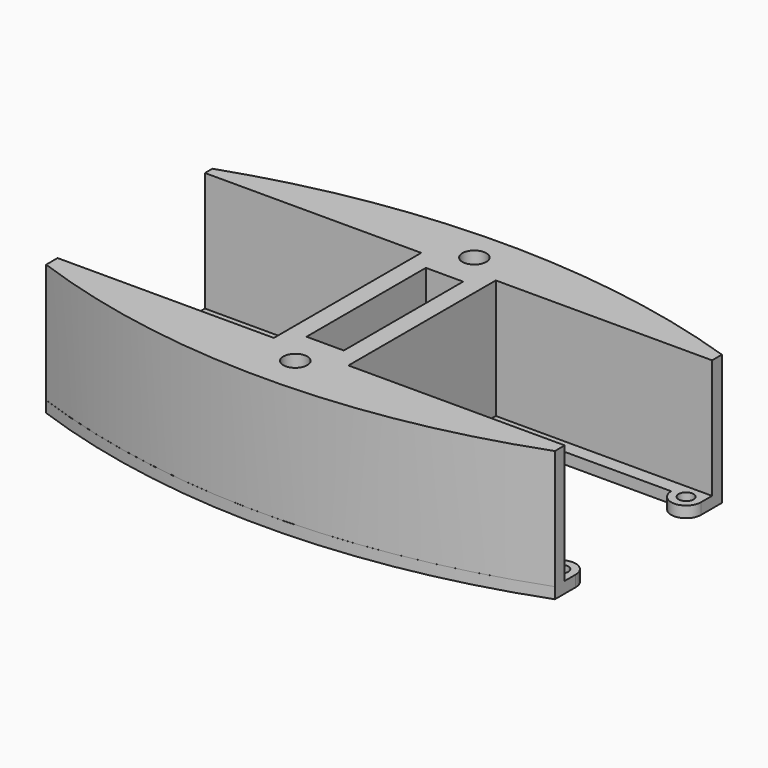
from build123d import *

# Parameters (mm, degrees)
SKETCH_R        = 1
PAD_DEPTH       = 1.5
PAD001_DEPTH    = 16
SKETCH002_R     = 1.6
POCKET_DEPTH    = 40
POCKET001_DEPTH = 14.5
SKETCH006_W     = 5
SKETCH006_H     = 20
POCKET002_DEPTH = 20


with BuildPart() as part:
    # Sketch → Pad (new body)
    with BuildSketch(Plane.XY):
        with BuildLine():
            Line((9, 10.5), (30, 10.5))
            ThreePointArc((30, 10.5), (32, 8.5), (34, 10.5))
            Line((34, 10.5), (34, 14))
            ThreePointArc((34, 14), (-0.033107, 19.414422), (-34, 13.599057))
            Line((-34, 10.5), (-34, 13.599057))
            ThreePointArc((-34, 10.5), (-32, 8.5), (-30, 10.5))
            Line((-9, 10.5), (-30, 10.5))
            ThreePointArc((-9, 10.5), (-7, 8.5), (-5, 10.5))
            Line((-5, 10.5), (-5, -10.5))
            ThreePointArc((-5, -10.5), (-7, -8.5), (-9, -10.5))
            Line((-9, -10.5), (-30, -10.5))
            ThreePointArc((-30, -10.5), (-32, -8.5), (-34, -10.5))
            Line((-34, -10.5), (-34, -14.274102))
            ThreePointArc((-34, -14.274102), (0.024236, -20.149507), (34, -14))
            Line((34, -10.5), (34, -14))
            ThreePointArc((34, -10.5), (32, -8.5), (30, -10.5))
            Line((9, -10.5), (30, -10.5))
            ThreePointArc((9, -10.5), (7, -8.5), (5, -10.5))
            Line((5, 10.5), (5, -10.5))
            ThreePointArc((5, 10.5), (7, 8.5), (9, 10.5))
        make_face()
        with Locations((7, 10.5)):
            Circle(SKETCH_R, mode=Mode.SUBTRACT)
        with Locations((7, -10.5)):
            Circle(SKETCH_R, mode=Mode.SUBTRACT)
        with Locations((32, 10.5)):
            Circle(SKETCH_R, mode=Mode.SUBTRACT)
        with Locations((32, -10.5)):
            Circle(SKETCH_R, mode=Mode.SUBTRACT)
        with Locations((-7, 10.5)):
            Circle(SKETCH_R, mode=Mode.SUBTRACT)
        with Locations((-7, -10.5)):
            Circle(SKETCH_R, mode=Mode.SUBTRACT)
        with Locations((-32, 10.5)):
            Circle(SKETCH_R, mode=Mode.SUBTRACT)
        with Locations((-32, -10.5)):
            Circle(SKETCH_R, mode=Mode.SUBTRACT)
    extrude(amount=PAD_DEPTH)

    # Sketch001 → Pad001 (new body)
    with BuildSketch(Plane.XY.offset(1.5)):
        with BuildLine():
            Line((-34, 12.35), (-5, 12.35))
            Line((-5, 12.35), (-5, 10.5))
            Line((-5, 10.5), (-5, -10.5))
            Line((-5, -10.5), (-5, -12.35))
            Line((-34, -12.35), (-5, -12.35))
            Line((-34, -12.35), (-34, -14.265938))
            ThreePointArc((-34, -14.265938), (0.023508, -20.143886), (34, -14))
            Line((34, -12.35), (34, -14))
            Line((34, -12.35), (5, -12.35))
            Line((5, -10.5), (5, -12.35))
            Line((5, 10.5), (5, -10.5))
            Line((5, 12.35), (5, 10.5))
            Line((34, 12.35), (5, 12.35))
            Line((34, 12.35), (34, 14))
            ThreePointArc((34, 14), (-0.033512, 19.410124), (-34, 13.594018))
            Line((-34, 13.594018), (-34, 12.35))
        make_face()
    extrude(amount=PAD001_DEPTH)

    # Sketch002 → Pocket (cut)
    with BuildSketch(Plane(origin=(0, 0, 0), x_dir=(1, 0, 0), z_dir=(0, 0, -1))):
        with Locations((0, 15)):
            Circle(SKETCH002_R)
        with Locations((0, -15)):
            Circle(SKETCH002_R)
    extrude(amount=-POCKET_DEPTH, mode=Mode.SUBTRACT)

    # Sketch005 → Pocket001 (cut)
    with BuildSketch(Plane(origin=(0, 0, 0), x_dir=(1, 0, 0), z_dir=(0, 0, -1))):
        Polygon((1.680935, 12.27705), (3.198611, 15.094258), (1.517676, 17.817208), (-1.680935, 17.72295), (-3.198611, 14.905742), (-1.517676, 12.182792), align=None)
        Polygon((1.642986, -17.746015), (3.199612, -14.95014), (1.556626, -12.204125), (-1.642986, -12.253985), (-3.199612, -15.04986), (-1.556626, -17.795875), align=None)
    extrude(amount=-POCKET001_DEPTH, mode=Mode.SUBTRACT)

    # Sketch006 → Pocket002 (cut)
    with BuildSketch(Plane.XY.offset(17.5)):
        Rectangle(SKETCH006_W, SKETCH006_H)
    extrude(amount=-POCKET002_DEPTH, mode=Mode.SUBTRACT)


solid = part.part
